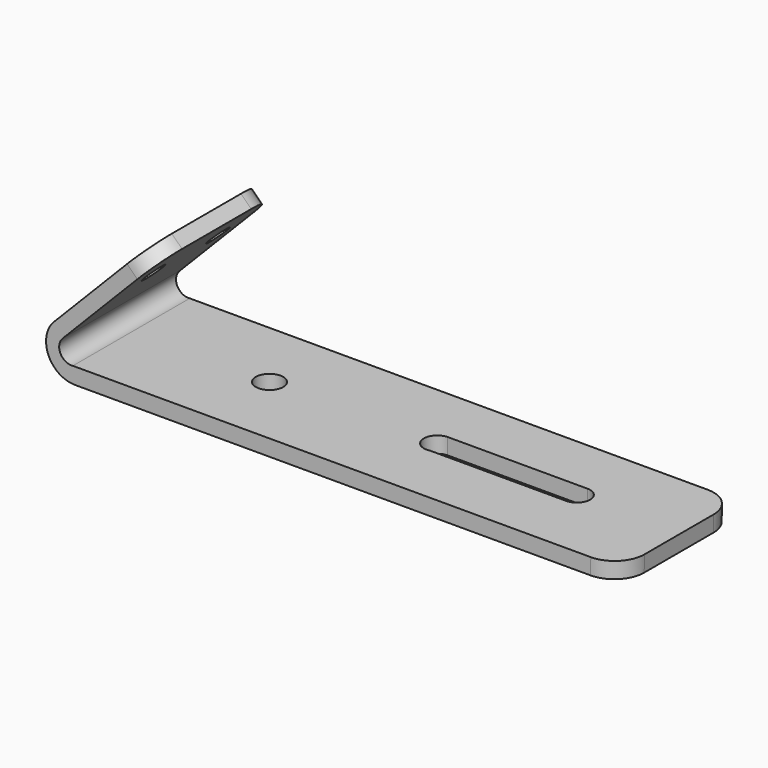
from build123d import *

# Parameters (mm, degrees)
F1_DEPTH = 24.892
F3_R     = 1.9249928247
F4_DEPTH = 25.4
F8_DEPTH = 25.4
F6_R     = 2.33692874
F9_DEPTH = 25.4
F10_R    = 5.08


with BuildPart() as f1:
    # F0 (on Front) → F1 (new body)
    with BuildSketch(Plane.XZ):
        with BuildLine():
            Line((-42.1696156263, 7.4068200774), (50.741981715, 7.4068200774))
            Line((50.741981715, 7.4068200774), (50.7852658629, 10.1576624438))
            Line((50.7852658629, 10.1576624438), (-42.5401590765, 10.1576624438))
            ThreePointArc((-42.5401590765, 10.1576624438), (-44.6625185823, 11.3214684612), (-44.2773737299, 13.7111374259))
            Line((-44.2773737299, 13.7111374259), (-27.9987339674, 30.3550571651))
            Line((-27.9987339674, 30.3550571651), (-29.7558531165, 32.0736132562))
            Line((-29.7558531165, 32.0736132562), (-46.0104458034, 15.4542801902))
            ThreePointArc((-46.0104458034, 15.4542801902), (-46.6281352998, 10.2191830011), (-42.1696156263, 7.4068200774))
        make_face()
    extrude(amount=F1_DEPTH)

    # F3 (on offset) → F4 (cut)
    with BuildSketch(Plane(origin=(-35.0542101214, 0, 34.2848840697), x_dir=(0, -1, 0), z_dir=(-0.7149082188, 0, 0.6992183055))):
        with Locations((4.9738232046, -6.1299321242)):
            Circle(F3_R)
        with Locations((18.6898232046, -6.1299321242)):
            Circle(F3_R)
    extrude(amount=-F4_DEPTH, mode=Mode.SUBTRACT)

    # F7 (on offset) → F8 (cut)
    with BuildSketch(Plane.XY.offset(17.78)):
        with BuildLine():
            ThreePointArc((9.39899395, -9.7591195918), (10.9418290691, -10.4711006155), (11.5712740591, -12.0494086295))
            ThreePointArc((11.5712740591, -12.0494086295), (11.0668007338, -13.4845114856), (9.7753070295, -14.2882885411))
            Line((9.7753070295, -14.2882885411), (33.0347828567, -14.2882885411))
            ThreePointArc((33.0347828567, -14.2882885411), (30.770198382, -12.0237040665), (33.0347828567, -9.7591195918))
            Line((33.0347828567, -9.7591195918), (9.39899395, -9.7591195918))
        make_face()
        with BuildLine():
            Line((33.0347828567, -14.2882885411), (33.0347828567, -9.7591195918))
            ThreePointArc((33.0347828567, -9.7591195918), (30.770198382, -12.0237040665), (33.0347828567, -14.2882885411))
        make_face()
        with BuildLine():
            ThreePointArc((35.2993673314, -12.0237040665), (34.6360858953, -10.4224010279), (33.0347828567, -9.7591195918))
            Line((33.0347828567, -9.7591195918), (33.0347828567, -14.2882885411))
            ThreePointArc((33.0347828567, -14.2882885411), (34.6360858953, -13.6250071051), (35.2993673314, -12.0237040665))
        make_face()
        with BuildLine():
            ThreePointArc((9.1565652679, -9.7591195918), (7.0053919382, -12.3598455256), (9.7753070295, -14.2882885411))
            Line((9.7753070295, -14.2882885411), (9.1565652679, -14.2882885411))
            Line((9.1565652679, -14.2882885411), (9.1565652679, -9.7591195918))
        make_face()
        with BuildLine():
            ThreePointArc((9.7753070295, -14.2882885411), (11.0668007338, -13.4845114856), (11.5712740591, -12.0494086295))
            ThreePointArc((11.5712740591, -12.0494086295), (10.9418290691, -10.4711006155), (9.39899395, -9.7591195918))
            Line((9.39899395, -9.7591195918), (9.1565652679, -9.7591195918))
            Line((9.1565652679, -9.7591195918), (9.1565652679, -14.2882885411))
            Line((9.1565652679, -14.2882885411), (9.7753070295, -14.2882885411))
        make_face()
    extrude(amount=-F8_DEPTH, mode=Mode.SUBTRACT)

    # F6 (on offset) → F9 (cut)
    with BuildSketch(Plane.XY.offset(17.78)):
        with Locations((-19.2057471722, -12.1737904847)):
            Circle(F6_R)
    extrude(amount=-F9_DEPTH, mode=Mode.SUBTRACT)

    # F10
    f10_edges = [f1.edges().sort_by_distance(p)[0] for p in [
        (-28.877294, 0, 31.214335),
        (-28.877294, -24.892, 31.214335),
        (50.763624, -24.892, 8.782241),
        (50.763624, 0, 8.782241),
    ]]
    fillet(f10_edges, radius=F10_R)


solid = f1.part
